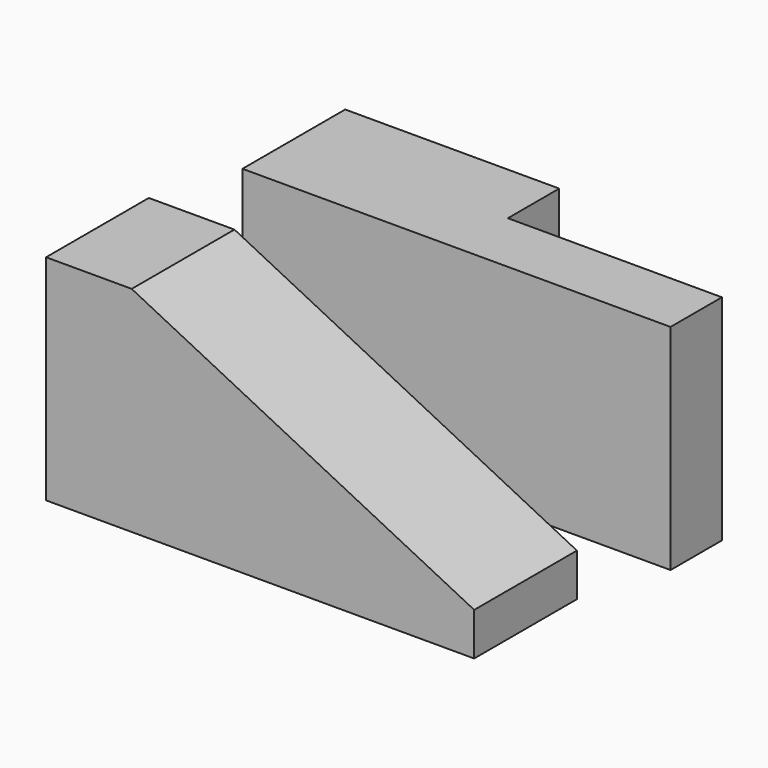
from build123d import *

# Parameters (mm, degrees)
F1_DEPTH = 38.1
F3_DEPTH = 63.5


with BuildPart() as f1:
    # F0 (on Front) → F1 (new body)
    with BuildSketch(Plane.XZ):
        Polygon((-30.7444, 68.011058), (-56.1444, 68.011058), (-56.1444, 4.511058), (70.8556, 4.511058), (70.8556, 17.211058), align=None)
    extrude(amount=F1_DEPTH)


with BuildPart() as f3:
    # F2 (on Top) → F3 (new body)
    with BuildSketch(Plane.XY):
        Polygon((9.743607, 69.836176), (-53.756393, 69.836176), (-53.756393, 31.736176), (73.243607, 31.736176), (73.243607, 50.786176), (9.743607, 50.786176), align=None)
    extrude(amount=F3_DEPTH)


solid = Compound([f1.part, f3.part])
